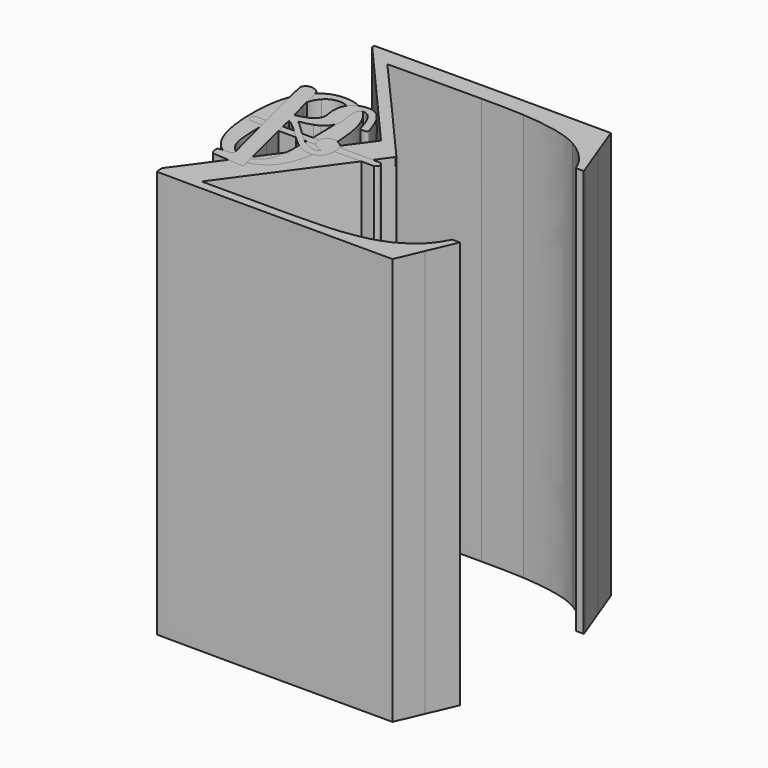
from build123d import *

# Parameters (mm, degrees)
PAD_DEPTH    = 10
PAD001_DEPTH = 10
PAD003_DEPTH = 10
PAD002_DEPTH = 10


with BuildPart() as body:
    # Sketch → Pad (new body)
    with BuildSketch(Plane.XY):
        with BuildLine():
            add(Edge.make_bspline(
                [(0.287331, -4.53981), (0.301697, -4.549388), (3.18458, -4.549388)],
                knots=[0, 0, 0, 1, 1, 1], degree=2))
            add(Edge.make_bspline(
                [(3.18458, -4.549388), (6.067463, -4.549388)],
                knots=[0, 0, 602, 602], degree=1))
            add(Edge.make_bspline(
                [(6.067463, -4.549388), (6.345216, -3.902896)],
                knots=[0, 0, 146.931957, 146.931957], degree=1))
            add(Edge.make_bspline(
                [(6.345216, -3.902896), (6.627757, -3.242037), (6.646913, -3.203727)],
                knots=[0, 0, 0, 1, 1, 1], degree=2))
            add(Edge.make_bspline(
                [(6.646913, -3.203727), (6.455359, -3.203727)],
                knots=[0, 0, 40, 40], degree=1))
            add(Edge.make_bspline(
                [(6.455359, -3.203727), (6.421837, -3.27077)],
                knots=[0, 0, 15.652476, 15.652476], degree=1))
            add(Edge.make_bspline(
                [(6.421837, -3.27077), (6.321271, -3.467112), (6.153662, -3.644299)],
                knots=[0, 0, 0, 1, 1, 1], degree=2))
            add(Edge.make_bspline(
                [(6.153662, -3.644299), (5.91422, -3.874163), (5.622101, -4.013039)],
                knots=[0, 0, 0, 1, 1, 1], degree=2))
            add(Edge.make_bspline(
                [(5.622101, -4.013039), (5.329981, -4.151915), (4.946874, -4.218958)],
                knots=[0, 0, 0, 1, 1, 1], degree=2))
            add(Edge.make_bspline(
                [(4.946874, -4.218958), (4.563766, -4.286002), (4.223759, -4.300368)],
                knots=[0, 0, 0, 1, 1, 1], degree=2))
            add(Edge.make_bspline(
                [(4.223759, -4.300368), (3.883751, -4.314735), (3.347401, -4.319524)],
                knots=[0, 0, 0, 1, 1, 1], degree=2))
            add(Edge.make_bspline(
                [(3.347401, -4.319524), (2.748795, -4.319524)],
                knots=[0, 0, 125, 125], degree=1))
            add(Edge.make_bspline(
                [(2.748795, -4.319524), (2.600341, -4.319524)],
                knots=[0, 0, 31, 31], degree=1))
            add(Edge.make_bspline(
                [(2.600341, -4.319524), (1.201999, -4.319524)],
                knots=[0, 0, 292, 292], degree=1))
            add(Edge.make_bspline(
                [(1.201999, -4.319524), (1.24031, -4.266847)],
                knots=[0, 0, 13.601471, 13.601471], degree=1))
            add(Edge.make_bspline(
                [(1.24031, -4.266847), (3.457544, -1.235518), (3.467122, -1.206785)],
                knots=[0, 0, 0, 1, 1, 1], degree=2))
            add(Edge.make_bspline(
                [(3.467122, -1.206785), (3.47191, -1.197207), (3.467122, -1.178052)],
                knots=[0, 0, 0, 1, 1, 1], degree=2))
            add(Edge.make_bspline(
                [(3.467122, -1.178052), (3.452755, -1.163685), (2.202867, 0.268174)],
                knots=[0, 0, 0, 1, 1, 1], degree=2))
            add(Edge.make_bspline(
                [(2.202867, 0.268174), (0.938613, 1.704823)],
                knots=[0, 0, 399.619819, 399.619819], degree=1))
            add(Edge.make_bspline(
                [(0.938613, 1.704823), (0.938613, 1.709612), (1.949059, 1.709612)],
                knots=[0, 0, 0, 1, 1, 1], degree=2))
            add(Edge.make_bspline(
                [(1.949059, 1.709612), (2.198078, 1.709612), (2.624285, 1.709612)],
                knots=[0, 0, 0, 1, 1, 1], degree=2))
            add(Edge.make_bspline(
                [(2.624285, 1.709612), (3.050492, 1.709612), (3.237257, 1.714401)],
                knots=[0, 0, 0, 1, 1, 1], degree=2))
            add(Edge.make_bspline(
                [(3.237257, 1.714401), (3.88854, 1.714401), (4.290802, 1.690457)],
                knots=[0, 0, 0, 1, 1, 1], degree=2))
            add(Edge.make_bspline(
                [(4.290802, 1.690457), (4.693065, 1.666512), (5.090539, 1.589891)],
                knots=[0, 0, 0, 1, 1, 1], degree=2))
            add(Edge.make_bspline(
                [(5.090539, 1.589891), (5.488013, 1.51327), (5.765766, 1.355239)],
                knots=[0, 0, 0, 1, 1, 1], degree=2))
            add(Edge.make_bspline(
                [(5.765766, 1.355239), (6.043519, 1.197207), (6.259017, 0.93861)],
                knots=[0, 0, 0, 1, 1, 1], degree=2))
            add(Edge.make_bspline(
                [(6.259017, 0.93861), (6.359582, 0.814101), (6.455359, 0.593815)],
                knots=[0, 0, 0, 1, 1, 1], degree=2))
            add(Edge.make_bspline(
                [(6.455359, 0.593815), (6.646913, 0.593815)],
                knots=[0, 0, 40, 40], degree=1))
            add(Edge.make_bspline(
                [(6.646913, 0.593815), (6.646913, 0.598604), (6.613391, 0.69438)],
                knots=[0, 0, 0, 1, 1, 1], degree=2))
            add(Edge.make_bspline(
                [(6.613391, 0.69438), (6.579869, 0.790157), (6.49367, 1.005654)],
                knots=[0, 0, 0, 1, 1, 1], degree=2))
            add(Edge.make_bspline(
                [(6.49367, 1.005654), (6.407471, 1.221151), (6.345216, 1.407916)],
                knots=[0, 0, 0, 1, 1, 1], degree=2))
            add(Edge.make_bspline(
                [(6.345216, 1.407916), (6.067463, 2.150184)],
                knots=[0, 0, 165.496224, 165.496224], degree=1))
            add(Edge.make_bspline(
                [(6.067463, 2.150184), (3.189369, 2.154973)],
                knots=[0, 0, 601.000832, 601.000832], degree=1))
            add(Edge.make_bspline(
                [(3.189369, 2.154973), (0.306486, 2.154973), (0.292119, 2.145395)],
                knots=[0, 0, 0, 1, 1, 1], degree=2))
            add(Edge.make_bspline(
                [(0.292119, 2.145395), (0.263386, 2.135818), (0.263386, 2.102296)],
                knots=[0, 0, 0, 1, 1, 1], degree=2))
            add(Edge.make_bspline(
                [(0.263386, 2.102296), (0.263386, 2.092718), (0.272964, 2.073563)],
                knots=[0, 0, 0, 1, 1, 1], degree=2))
            add(Edge.make_bspline(
                [(0.272964, 2.073563), (2.825417, -0.847623)],
                knots=[0, 0, 810.054936, 810.054936], degree=1))
            add(Edge.make_bspline(
                [(2.825417, -0.847623), (2.825417, -0.852412), (2.667385, -1.06312)],
                knots=[0, 0, 0, 1, 1, 1], degree=2))
            add(Edge.make_bspline(
                [(2.667385, -1.06312), (2.509353, -1.273829), (2.164557, -1.752711)],
                knots=[0, 0, 0, 1, 1, 1], degree=2))
            add(Edge.make_bspline(
                [(2.164557, -1.752711), (1.81976, -2.231594), (1.542007, -2.605123)],
                knots=[0, 0, 0, 1, 1, 1], degree=2))
            add(Edge.make_bspline(
                [(1.542007, -2.605123), (0.268175, -4.353046)],
                knots=[0, 0, 451.642558, 451.642558], degree=1))
            add(Edge.make_bspline(
                [(0.268175, -4.353046), (0.263386, -4.424878)],
                knots=[0, 0, 15.033296, 15.033296], degree=1))
            add(Edge.make_bspline(
                [(0.263386, -4.424878), (0.263386, -4.525443), (0.287331, -4.53981)],
                knots=[0, 0, 0, 1, 1, 1], degree=2))
        make_face()
    extrude(amount=PAD_DEPTH)


with BuildPart() as body001:
    # Sketch003 → Pad001 (new body)
    with BuildSketch(Plane.XY):
        with BuildLine():
            add(Edge.make_bspline(
                [(0.459729, -2.801465), (0.727904, -3.18936), (1.192422, -3.18936)],
                knots=[0, 0, 0, 1, 1, 1], degree=2))
            add(Edge.make_bspline(
                [(1.192422, -3.18936), (1.422286, -3.18936), (1.652151, -3.064851)],
                knots=[0, 0, 0, 1, 1, 1], degree=2))
            add(Edge.make_bspline(
                [(1.652151, -3.064851), (1.882015, -2.940341), (2.02568, -2.624278)],
                knots=[0, 0, 0, 1, 1, 1], degree=2))
            add(Edge.make_bspline(
                [(2.02568, -2.624278), (2.202867, -2.226805), (2.202867, -1.532425)],
                knots=[0, 0, 0, 1, 1, 1], degree=2))
            add(Edge.make_bspline(
                [(2.202867, -1.532425), (2.202867, -0.790157), (1.996947, -0.397473)],
                knots=[0, 0, 0, 1, 1, 1], degree=2))
            add(Edge.make_bspline(
                [(1.996947, -0.397473), (1.90117, -0.196342), (1.733561, -0.076621)],
                knots=[0, 0, 0, 1, 1, 1], degree=2))
            add(Edge.make_bspline(
                [(1.733561, -0.076621), (1.565951, 0.043099), (1.441441, 0.071832)],
                knots=[0, 0, 0, 1, 1, 1], degree=2))
            add(Edge.make_bspline(
                [(1.441441, 0.071832), (1.316932, 0.100565), (1.197211, 0.105354)],
                knots=[0, 0, 0, 1, 1, 1], degree=2))
            add(Edge.make_bspline(
                [(1.197211, 0.105354), (1.072701, 0.105354), (0.948191, 0.076621)],
                knots=[0, 0, 0, 1, 1, 1], degree=2))
            add(Edge.make_bspline(
                [(0.948191, 0.076621), (0.823681, 0.047888), (0.656071, -0.076621)],
                knots=[0, 0, 0, 1, 1, 1], degree=2))
            add(Edge.make_bspline(
                [(0.656071, -0.076621), (0.488462, -0.201131), (0.392685, -0.397473)],
                knots=[0, 0, 0, 1, 1, 1], degree=2))
            add(Edge.make_bspline(
                [(0.392685, -0.397473), (0.186765, -0.790157), (0.186765, -1.532425)],
                knots=[0, 0, 0, 1, 1, 1], degree=2))
            add(Edge.make_bspline(
                [(0.186765, -1.532425), (0.186765, -2.365682), (0.459729, -2.801465)],
                knots=[0, 0, 0, 1, 1, 1], degree=2))
        make_face()
        with BuildLine():
            add(Edge.make_bspline(
                [(1.537218, -2.858931), (1.393553, -3.012173), (1.197211, -3.012173)],
                knots=[0, 0, 0, 1, 1, 1], degree=2))
            add(Edge.make_bspline(
                [(1.197211, -3.012173), (0.996079, -3.012173), (0.852414, -2.858931)],
                knots=[0, 0, 0, 1, 1, 1], degree=2))
            add(Edge.make_bspline(
                [(0.852414, -2.858931), (0.732693, -2.734421), (0.694382, -2.514135)],
                knots=[0, 0, 0, 1, 1, 1], degree=2))
            add(Edge.make_bspline(
                [(0.694382, -2.514135), (0.656071, -2.293849), (0.656071, -1.59468)],
                knots=[0, 0, 0, 1, 1, 1], degree=2))
            add(Edge.make_bspline(
                [(0.656071, -1.59468), (0.656071, -0.838045), (0.694382, -0.598604)],
                knots=[0, 0, 0, 1, 1, 1], degree=2))
            add(Edge.make_bspline(
                [(0.694382, -0.598604), (0.732693, -0.359162), (0.86678, -0.220286)],
                knots=[0, 0, 0, 1, 1, 1], degree=2))
            add(Edge.make_bspline(
                [(0.86678, -0.220286), (1.000868, -0.076621), (1.197211, -0.076621)],
                knots=[0, 0, 0, 1, 1, 1], degree=2))
            add(Edge.make_bspline(
                [(1.197211, -0.076621), (1.388764, -0.076621), (1.522852, -0.220286)],
                knots=[0, 0, 0, 1, 1, 1], degree=2))
            add(Edge.make_bspline(
                [(1.522852, -0.220286), (1.661728, -0.363951), (1.69525, -0.622548)],
                knots=[0, 0, 0, 1, 1, 1], degree=2))
            add(Edge.make_bspline(
                [(1.69525, -0.622548), (1.728772, -0.881145), (1.733561, -1.59468)],
                knots=[0, 0, 0, 1, 1, 1], degree=2))
            add(Edge.make_bspline(
                [(1.733561, -1.59468), (1.733561, -2.28906), (1.69525, -2.509346)],
                knots=[0, 0, 0, 1, 1, 1], degree=2))
            add(Edge.make_bspline(
                [(1.69525, -2.509346), (1.656939, -2.729633), (1.537218, -2.858931)],
                knots=[0, 0, 0, 1, 1, 1], degree=2))
        make_face(mode=Mode.SUBTRACT)
    extrude(amount=PAD001_DEPTH)


with BuildPart() as body002:
    # Sketch002 → Pad003 (new body)
    with BuildSketch(Plane.XY):
        with BuildLine():
            add(Edge.make_bspline(
                [(0.268175, -1.661724), (0.268175, -1.723978), (0.335219, -1.7575)],
                knots=[0, 0, 0, 1, 1, 1], degree=2))
            add(Edge.make_bspline(
                [(0.335219, -1.7575), (3.385711, -1.7575)],
                knots=[0, 0, 637, 637], degree=1))
            add(Edge.make_bspline(
                [(3.385711, -1.7575), (3.457544, -1.71919), (3.457544, -1.661724)],
                knots=[0, 0, 0, 1, 1, 1], degree=2))
            add(Edge.make_bspline(
                [(3.457544, -1.661724), (3.457544, -1.609047), (3.3905, -1.570736)],
                knots=[0, 0, 0, 1, 1, 1], degree=2))
            add(Edge.make_bspline(
                [(3.3905, -1.570736), (1.867648, -1.565947)],
                knots=[0, 0, 318.001572, 318.001572], degree=1))
            add(Edge.make_bspline(
                [(1.867648, -1.565947), (0.344797, -1.565947)],
                knots=[0, 0, 318, 318], degree=1))
            add(Edge.make_bspline(
                [(0.344797, -1.565947), (0.268175, -1.589891), (0.268175, -1.661724)],
                knots=[0, 0, 0, 1, 1, 1], degree=2))
        make_face()
    extrude(amount=PAD003_DEPTH)


with BuildPart() as body003:
    # Sketch001 → Pad002 (new body)
    with BuildSketch(Plane.XY):
        with BuildLine():
            add(Edge.make_bspline(
                [(0.57945, -3.098372), (0.57945, -3.146261), (0.598605, -3.208515)],
                knots=[0, 0, 0, 1, 1, 1], degree=2))
            add(Edge.make_bspline(
                [(0.598605, -3.208515), (0.617761, -3.27077), (0.656071, -3.27077)],
                knots=[0, 0, 0, 1, 1, 1], degree=2))
            add(Edge.make_bspline(
                [(0.656071, -3.27077), (0.66086, -3.27077), (1.000868, -3.294714)],
                knots=[0, 0, 0, 1, 1, 1], degree=2))
            add(Edge.make_bspline(
                [(1.000868, -3.294714), (1.340876, -3.318658), (1.350453, -3.323447)],
                knots=[0, 0, 0, 1, 1, 1], degree=2))
            add(Edge.make_bspline(
                [(1.350453, -3.323447), (1.40792, -3.323447), (1.40792, -3.285137)],
                knots=[0, 0, 0, 1, 1, 1], degree=2))
            add(Edge.make_bspline(
                [(1.40792, -3.285137), (1.40792, -3.251615), (1.168477, -2.284271)],
                knots=[0, 0, 0, 1, 1, 1], degree=2))
            add(Edge.make_bspline(
                [(1.168477, -2.284271), (0.929035, -1.336083), (0.929035, -1.302561)],
                knots=[0, 0, 0, 1, 1, 1], degree=2))
            add(Edge.make_bspline(
                [(0.929035, -1.302561), (1.020023, -1.35045), (1.067912, -1.393549)],
                knots=[0, 0, 0, 1, 1, 1], degree=2))
            add(Edge.make_bspline(
                [(1.067912, -1.393549), (1.182844, -1.479748), (1.398342, -1.695245)],
                knots=[0, 0, 0, 1, 1, 1], degree=2))
            add(Edge.make_bspline(
                [(1.398342, -1.695245), (1.61384, -1.910743), (1.733561, -1.987364)],
                knots=[0, 0, 0, 1, 1, 1], degree=2))
            add(Edge.make_bspline(
                [(1.733561, -1.987364), (1.925114, -2.116662), (2.097513, -2.116662)],
                knots=[0, 0, 0, 1, 1, 1], degree=2))
            add(Edge.make_bspline(
                [(2.097513, -2.116662), (2.241178, -2.116662), (2.322588, -2.025675)],
                knots=[0, 0, 0, 1, 1, 1], degree=2))
            add(Edge.make_bspline(
                [(2.322588, -2.025675), (2.403999, -1.934687), (2.408788, -1.767078)],
                knots=[0, 0, 0, 1, 1, 1], degree=2))
            add(Edge.make_bspline(
                [(2.408788, -1.767078), (2.408788, -1.647357), (2.375266, -1.565947)],
                knots=[0, 0, 0, 1, 1, 1], degree=2))
            add(Edge.make_bspline(
                [(2.375266, -1.565947), (2.341744, -1.484537), (2.284278, -1.446226)],
                knots=[0, 0, 0, 1, 1, 1], degree=2))
            add(Edge.make_bspline(
                [(2.284278, -1.446226), (2.226812, -1.407916), (2.183712, -1.393549)],
                knots=[0, 0, 0, 1, 1, 1], degree=2))
            add(Edge.make_bspline(
                [(2.183712, -1.393549), (2.140612, -1.379183), (2.097513, -1.379183)],
                knots=[0, 0, 0, 1, 1, 1], degree=2))
            add(Edge.make_bspline(
                [(2.097513, -1.379183), (2.001736, -1.379183), (1.94427, -1.43186)],
                knots=[0, 0, 0, 1, 1, 1], degree=2))
            add(Edge.make_bspline(
                [(1.94427, -1.43186), (1.886804, -1.484537), (1.886804, -1.570736)],
                knots=[0, 0, 0, 1, 1, 1], degree=2))
            add(Edge.make_bspline(
                [(1.886804, -1.570736), (1.886804, -1.690457), (1.963425, -1.767078)],
                knots=[0, 0, 0, 1, 1, 1], degree=2))
            add(Edge.make_bspline(
                [(1.963425, -1.767078), (2.040047, -1.843699), (2.116668, -1.867643)],
                knots=[0, 0, 0, 1, 1, 1], degree=2))
            add(Edge.make_bspline(
                [(2.116668, -1.867643), (2.19329, -1.88201)],
                knots=[0, 0, 16.278821, 16.278821], degree=1))
            add(Edge.make_bspline(
                [(2.19329, -1.88201), (2.135824, -1.939476), (2.078357, -1.939476)],
                knots=[0, 0, 0, 1, 1, 1], degree=2))
            add(Edge.make_bspline(
                [(2.078357, -1.939476), (2.059202, -1.939476)],
                knots=[0, 0, 4, 4], degree=1))
            add(Edge.make_bspline(
                [(2.059202, -1.939476), (1.905959, -1.925109), (1.757505, -1.819755)],
                knots=[0, 0, 0, 1, 1, 1], degree=2))
            add(Edge.make_bspline(
                [(1.757505, -1.819755), (1.609051, -1.714401), (1.40792, -1.51327)],
                knots=[0, 0, 0, 1, 1, 1], degree=2))
            add(Edge.make_bspline(
                [(1.40792, -1.51327), (1.206788, -1.312139), (1.091856, -1.221151)],
                knots=[0, 0, 0, 1, 1, 1], degree=2))
            add(Edge.make_bspline(
                [(1.091856, -1.221151), (1.101434, -1.216363), (1.163689, -1.206785)],
                knots=[0, 0, 0, 1, 1, 1], degree=2))
            add(Edge.make_bspline(
                [(1.163689, -1.206785), (1.225944, -1.197207), (1.278621, -1.178052)],
                knots=[0, 0, 0, 1, 1, 1], degree=2))
            add(Edge.make_bspline(
                [(1.278621, -1.178052), (1.331298, -1.158897), (1.403131, -1.139741)],
                knots=[0, 0, 0, 1, 1, 1], degree=2))
            add(Edge.make_bspline(
                [(1.403131, -1.139741), (1.474963, -1.120586), (1.532429, -1.072698)],
                knots=[0, 0, 0, 1, 1, 1], degree=2))
            add(Edge.make_bspline(
                [(1.532429, -1.072698), (1.589896, -1.024809), (1.637784, -0.986499)],
                knots=[0, 0, 0, 1, 1, 1], degree=2))
            add(Edge.make_bspline(
                [(1.637784, -0.986499), (1.685672, -0.948188), (1.719194, -0.861989)],
                knots=[0, 0, 0, 1, 1, 1], degree=2))
            add(Edge.make_bspline(
                [(1.719194, -0.861989), (1.752716, -0.77579), (1.747927, -0.703958)],
                knots=[0, 0, 0, 1, 1, 1], degree=2))
            add(Edge.make_bspline(
                [(1.747927, -0.703958), (1.747927, -0.622548), (1.723983, -0.507616)],
                knots=[0, 0, 0, 1, 1, 1], degree=2))
            add(Edge.make_bspline(
                [(1.723983, -0.507616), (1.700039, -0.392684), (1.69525, -0.316063)],
                knots=[0, 0, 0, 1, 1, 1], degree=2))
            add(Edge.make_bspline(
                [(1.69525, -0.316063), (1.69525, -0.12451), (1.824549, -0.12451)],
                knots=[0, 0, 0, 1, 1, 1], degree=2))
            add(Edge.make_bspline(
                [(1.824549, -0.12451), (2.054413, -0.12451), (2.198078, -0.69438)],
                knots=[0, 0, 0, 1, 1, 1], degree=2))
            add(Edge.make_bspline(
                [(2.198078, -0.69438), (2.207656, -0.732691), (2.293855, -0.732691)],
                knots=[0, 0, 0, 1, 1, 1], degree=2))
            add(Edge.make_bspline(
                [(2.293855, -0.732691), (2.313011, -0.732691)],
                knots=[0, 0, 4, 4], degree=1))
            add(Edge.make_bspline(
                [(2.313011, -0.732691), (2.389632, -0.732691), (2.389632, -0.689591)],
                knots=[0, 0, 0, 1, 1, 1], degree=2))
            add(Edge.make_bspline(
                [(2.389632, -0.689591), (2.389632, -0.665647), (2.375266, -0.622548)],
                knots=[0, 0, 0, 1, 1, 1], degree=2))
            add(Edge.make_bspline(
                [(2.375266, -0.622548), (2.178923, 0.052677), (1.810182, 0.052677)],
                knots=[0, 0, 0, 1, 1, 1], degree=2))
            add(Edge.make_bspline(
                [(1.810182, 0.052677), (1.594684, 0.052677), (1.460597, -0.071832)],
                knots=[0, 0, 0, 1, 1, 1], degree=2))
            add(Edge.make_bspline(
                [(1.460597, -0.071832), (1.326509, -0.196342), (1.326509, -0.430995)],
                knots=[0, 0, 0, 1, 1, 1], degree=2))
            add(Edge.make_bspline(
                [(1.326509, -0.430995), (1.326509, -0.517194), (1.340876, -0.579448)],
                knots=[0, 0, 0, 1, 1, 1], degree=2))
            add(Edge.make_bspline(
                [(1.340876, -0.579448), (1.355242, -0.641703), (1.355242, -0.69438)],
                knots=[0, 0, 0, 1, 1, 1], degree=2))
            add(Edge.make_bspline(
                [(1.355242, -0.69438), (1.355242, -0.799734), (1.288199, -0.876356)],
                knots=[0, 0, 0, 1, 1, 1], degree=2))
            add(Edge.make_bspline(
                [(1.288199, -0.876356), (1.221155, -0.952977), (1.120589, -0.986499)],
                knots=[0, 0, 0, 1, 1, 1], degree=2))
            add(Edge.make_bspline(
                [(1.120589, -0.986499), (1.020023, -1.020021), (0.957768, -1.039176)],
                knots=[0, 0, 0, 1, 1, 1], degree=2))
            add(Edge.make_bspline(
                [(0.957768, -1.039176), (0.895513, -1.058331), (0.871569, -1.053542)],
                knots=[0, 0, 0, 1, 1, 1], degree=2))
            add(Edge.make_bspline(
                [(0.871569, -1.053542), (0.861992, -1.053542)],
                knots=[0, 0, 2, 2], degree=1))
            add(Edge.make_bspline(
                [(0.861992, -1.053542), (0.804525, -0.852412), (0.761426, -0.665647)],
                knots=[0, 0, 0, 1, 1, 1], degree=2))
            add(Edge.make_bspline(
                [(0.761426, -0.665647), (0.718326, -0.478883), (0.694382, -0.387895)],
                knots=[0, 0, 0, 1, 1, 1], degree=2))
            add(Edge.make_bspline(
                [(0.694382, -0.387895), (0.670438, -0.296907), (0.651283, -0.210708)],
                knots=[0, 0, 0, 1, 1, 1], degree=2))
            add(Edge.make_bspline(
                [(0.651283, -0.210708), (0.632127, -0.12451), (0.617761, -0.095777)],
                knots=[0, 0, 0, 1, 1, 1], degree=2))
            add(Edge.make_bspline(
                [(0.617761, -0.095777), (0.603394, -0.067044), (0.584239, -0.033522)],
                knots=[0, 0, 0, 1, 1, 1], degree=2))
            add(Edge.make_bspline(
                [(0.584239, -0.033522), (0.565083, 0), (0.531561, 0.009578)],
                knots=[0, 0, 0, 1, 1, 1], degree=2))
            add(Edge.make_bspline(
                [(0.531561, 0.009578), (0.469307, 0.052677), (0.397474, 0.052677)],
                knots=[0, 0, 0, 1, 1, 1], degree=2))
            add(Edge.make_bspline(
                [(0.397474, 0.052677), (0.316064, 0.052677), (0.272964, 0.004789)],
                knots=[0, 0, 0, 1, 1, 1], degree=2))
            add(Edge.make_bspline(
                [(0.272964, 0.004789), (0.229864, -0.043099), (0.229864, -0.076621)],
                knots=[0, 0, 0, 1, 1, 1], degree=2))
            add(Edge.make_bspline(
                [(0.229864, -0.076621), (0.229864, -0.12451), (0.407052, -0.842834)],
                knots=[0, 0, 0, 1, 1, 1], degree=2))
            add(Edge.make_bspline(
                [(0.407052, -0.842834), (0.584239, -1.561158), (0.756637, -2.255538)],
                knots=[0, 0, 0, 1, 1, 1], degree=2))
            add(Edge.make_bspline(
                [(0.756637, -2.255538), (0.933824, -2.949919)],
                knots=[0, 0, 149.64625, 149.64625], degree=1))
            add(Edge.make_bspline(
                [(0.933824, -2.949919), (0.938613, -3.012173), (0.900302, -3.02654)],
                knots=[0, 0, 0, 1, 1, 1], degree=2))
            add(Edge.make_bspline(
                [(0.900302, -3.02654), (0.861992, -3.040906), (0.713537, -3.050484)],
                knots=[0, 0, 0, 1, 1, 1], degree=2))
            add(Edge.make_bspline(
                [(0.713537, -3.050484), (0.689593, -3.050484)],
                knots=[0, 0, 5, 5], degree=1))
            add(Edge.make_bspline(
                [(0.689593, -3.050484), (0.641705, -3.050484), (0.627338, -3.050484)],
                knots=[0, 0, 0, 1, 1, 1], degree=2))
            add(Edge.make_bspline(
                [(0.627338, -3.050484), (0.612972, -3.050484), (0.593816, -3.064851)],
                knots=[0, 0, 0, 1, 1, 1], degree=2))
            add(Edge.make_bspline(
                [(0.593816, -3.064851), (0.574661, -3.079217), (0.57945, -3.098372)],
                knots=[0, 0, 0, 1, 1, 1], degree=2))
        make_face()
    extrude(amount=PAD002_DEPTH)


solid = Compound([body.part, body001.part, body002.part, body003.part])
